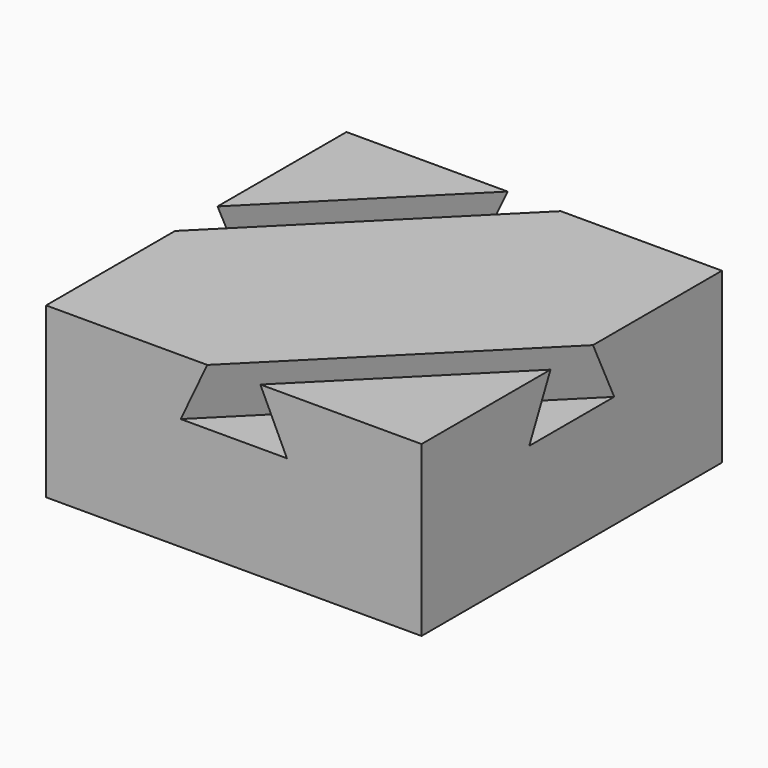
from build123d import *

# Parameters (mm, degrees)
F0_W     = 100
F0_H     = 100
F1_DEPTH = 45
F6_DEPTH = 15


with BuildPart() as f1:
    # F0 (on Top) → F1 (new body)
    with BuildSketch(Plane.XY):
        Rectangle(F0_W, F0_H)
    extrude(amount=F1_DEPTH)

    # F5 (on offset) → F6 (cut)
    with BuildSketch(Plane.XY.offset(45)):
        Polygon((50, -7.071068), (50, 7.071068), (-7.071068, -50), (7.071068, -50), align=None)
        Polygon((7.071068, 50), (-7.071068, 50), (-50, 7.071068), (-50, -7.071068), align=None)
    extrude(amount=-F6_DEPTH, mode=Mode.SUBTRACT)

    # F3 (on offset) → F7 section 0
    with BuildSketch(Plane.XY.offset(30)):
        Polygon((14.142136, -50), (50, -14.142136), (50, 14.142136), (-14.142136, -50), align=None)
    # F5 (on offset) → F7 section 1
    with BuildSketch(Plane.XY.offset(45)):
        Polygon((50, -7.071068), (50, 7.071068), (-7.071068, -50), (7.071068, -50), align=None)
    loft(mode=Mode.SUBTRACT)

    # F3 (on offset) → F8 section 0
    with BuildSketch(Plane.XY.offset(30)):
        Polygon((-50, -14.142136), (14.142136, 50), (-14.142136, 50), (-50, 14.142136), align=None)
    # F5 (on offset) → F8 section 1
    with BuildSketch(Plane.XY.offset(45)):
        Polygon((7.071068, 50), (-7.071068, 50), (-50, 7.071068), (-50, -7.071068), align=None)
    loft(mode=Mode.SUBTRACT)


solid = f1.part
